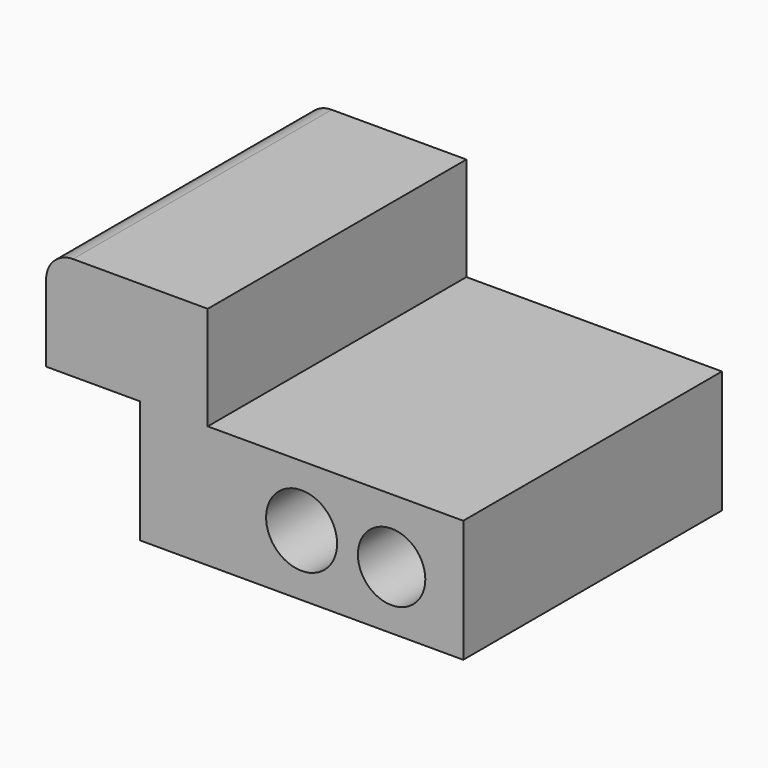
from build123d import *

# Parameters (mm, degrees)
F0_R     = 8.365692
F0_R_2   = 7.949673
F1_DEPTH = 76.2


with BuildPart() as f1:
    # F0 (on Front) → F1 (new body)
    with BuildSketch(Plane.XZ):
        Polygon((-4.221705, 28.852343), (-4.221705, 0), (71.978295, 0), (71.978295, 28.852343), (11.756951, 28.852343), align=None)
        with Locations((33.878295, 14.426172)):
            Circle(F0_R, mode=Mode.SUBTRACT)
        with Locations((55.086598, 13.778679)):
            Circle(F0_R_2, mode=Mode.SUBTRACT)
        with BuildLine():
            Line((-26.343049, 28.852343), (-4.221705, 28.852343))
            Line((-4.221705, 28.852343), (11.756951, 28.852343))
            Line((11.756951, 28.852343), (11.756951, 53.244089))
            Line((11.756951, 53.244089), (-19.993049, 53.244089))
            ThreePointArc((-19.993049, 53.244089), (-24.483177, 51.384217), (-26.343049, 46.894089))
            Line((-26.343049, 46.894089), (-26.343049, 28.852343))
        make_face()
    extrude(amount=F1_DEPTH)


solid = f1.part
